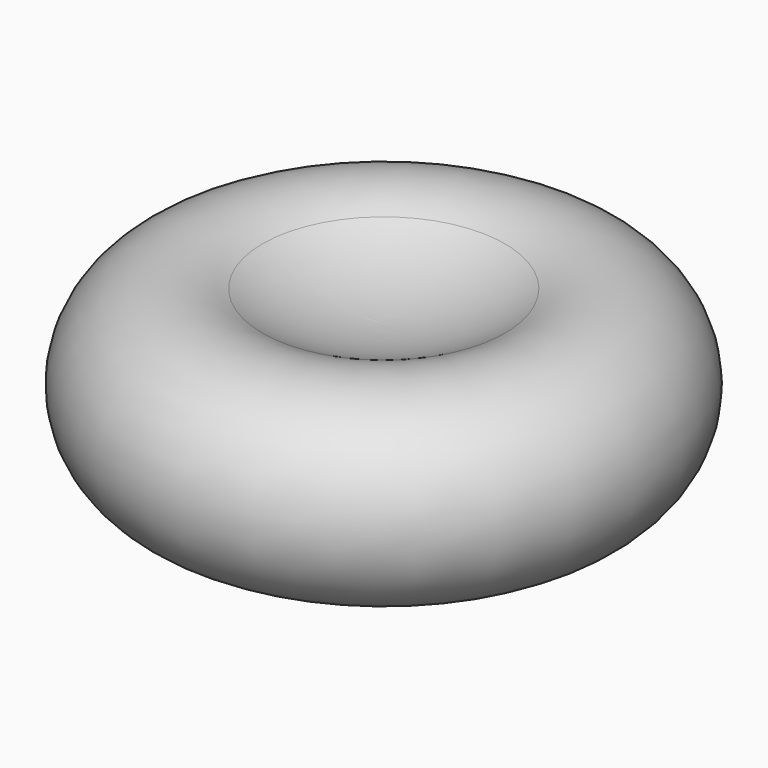
from build123d import *


with BuildPart() as f1:
    # F0 (on Front) → F1 (revolve)
    with BuildSketch(Plane.XZ):
        with BuildLine():
            ThreePointArc((-5.872712, 8.441343), (-3.07739, 9.811966), (0, 10.283239))
            Line((0, 10.283239), (0, 15.283239))
            ThreePointArc((0, 15.283239), (-3.2537, 15.698096), (-6.299204, 16.916119))
            ThreePointArc((-6.299204, 16.916119), (-13.721869, 12.294455), (-5.872712, 8.441343))
        make_face()
    revolve(axis=Axis((0, 0, 12.783239), (0, 0, -1)))


solid = f1.part
